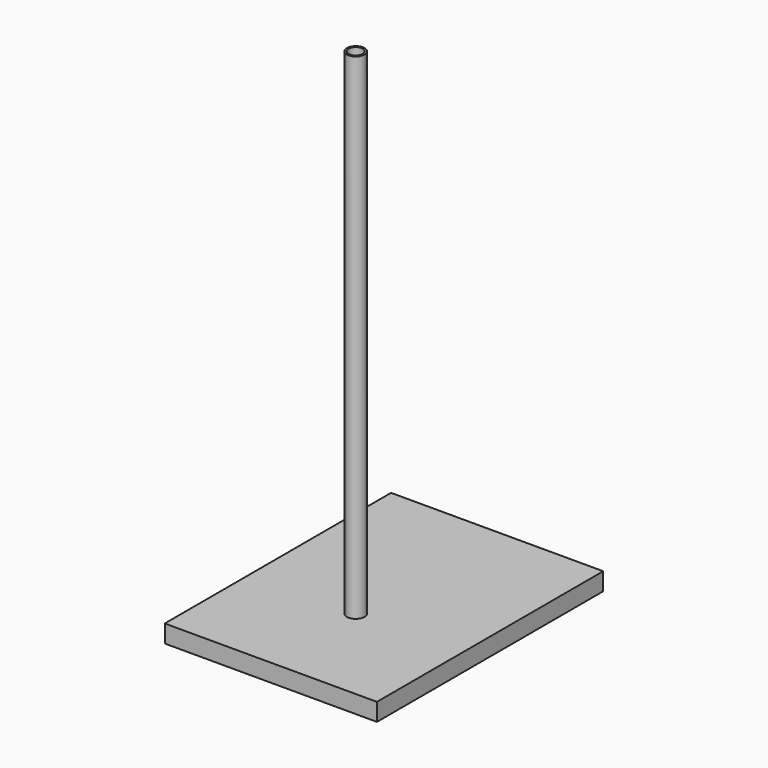
from build123d import *

# Parameters (mm, degrees)
F0_W     = 300
F0_H     = 400
F1_DEPTH = 25
F2_R     = 12.5
F3_DEPTH = 700
F4_R     = 10
F5_DEPTH = 20


with BuildPart() as f1:
    # F0 (on Top) → F1 (new body)
    with BuildSketch(Plane.XY):
        with Locations((150, -200)):
            Rectangle(F0_W, F0_H)
    extrude(amount=F1_DEPTH)

    # F2 (on face) → F3 (join)
    with BuildSketch(Plane.XY.offset(25)):
        with Locations((150, -250)):
            Circle(F2_R)
    extrude(amount=F3_DEPTH)

    # F4 (on face) → F5 (cut)
    with BuildSketch(Plane.XY.offset(725)):
        with Locations((150, -250)):
            Circle(F4_R)
    extrude(amount=-F5_DEPTH, mode=Mode.SUBTRACT)


solid = f1.part
